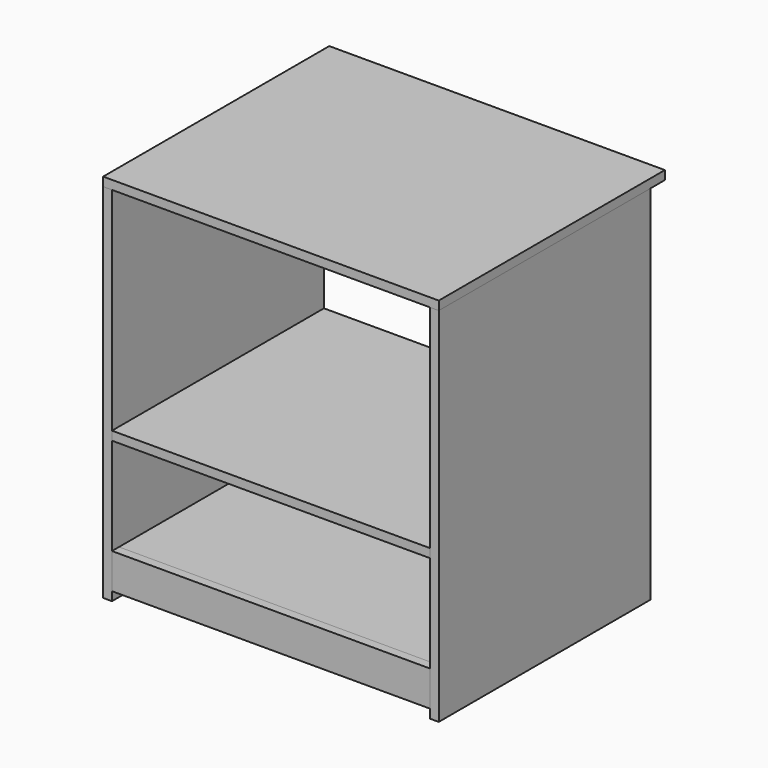
from build123d import *

# Parameters (mm, degrees)
F1_DEPTH = 406.4
F2_DEPTH = 381
F3_START = -12.7
F3_DEPTH = 368.3
F4_START = -12.7
F0_W     = 12.7
F0_H     = 38.1
F4_DEPTH = 368.3
F0_W_2   = 431.8
F5_DEPTH = 12.7
F0_W_3   = 457.2
F0_H_2   = 12.7
F6_DEPTH = 381


with BuildPart() as f1:
    # F0 (on Front) → F1 (new body)
    with BuildSketch(Plane.XZ):
        Polygon((241.3, 6.35), (-241.3, 6.35), (-241.3, -6.35), (-228.6, -6.35), (228.6, -6.35), (241.3, -6.35), align=None)
    extrude(amount=-F1_DEPTH)


with BuildPart() as f2:
    # F0 (on Front) → F2 (new body)
    with BuildSketch(Plane.XZ):
        Polygon((-228.6, -6.35), (-241.3, -6.35), (-241.3, -527.05), (-228.6, -527.05), (-228.6, -514.35), (-228.6, -476.25), (-228.6, -463.55), (-228.6, -323.85), (-228.6, -311.15), align=None)
    extrude(amount=-F2_DEPTH)


with BuildPart() as f2b:
    # F0 (on Front) → F2, piece 2 (new body)
    with BuildSketch(Plane.XZ):
        Polygon((241.3, -527.05), (241.3, -6.35), (228.6, -6.35), (228.6, -311.15), (228.6, -323.85), (228.6, -463.55), (228.6, -476.25), (228.6, -514.35), (228.6, -527.05), align=None)
    extrude(amount=-F2_DEPTH)


with BuildPart() as f3:
    # F0 (on Front) → F3 (new body)
    with BuildSketch(Plane.XZ.offset(F3_START)):
        Polygon((228.6, -463.55), (-228.6, -463.55), (-228.6, -476.25), (-215.9, -476.25), (215.9, -476.25), (228.6, -476.25), align=None)
    extrude(amount=-F3_DEPTH)


with BuildPart() as f4:
    # F0 (on Front) → F4 (new body)
    with BuildSketch(Plane.XZ.offset(F4_START)):
        with Locations((-222.25, -495.3)):
            Rectangle(F0_W, F0_H)
    extrude(amount=-F4_DEPTH)


with BuildPart() as f4b:
    # F0 (on Front) → F4, piece 2 (new body)
    with BuildSketch(Plane.XZ.offset(F4_START)):
        with Locations((222.25, -495.3)):
            Rectangle(F0_W, F0_H)
    extrude(amount=-F4_DEPTH)


with BuildPart() as f5:
    # F0 (on Front) → F5 (new body)
    with BuildSketch(Plane.XZ):
        with Locations((-222.25, -495.3)):
            Rectangle(F0_W, F0_H)
        with Locations((0, -495.3)):
            Rectangle(F0_W_2, F0_H)
        Polygon((228.6, -463.55), (-228.6, -463.55), (-228.6, -476.25), (-215.9, -476.25), (215.9, -476.25), (228.6, -476.25), align=None)
        with Locations((222.25, -495.3)):
            Rectangle(F0_W, F0_H)
    extrude(amount=-F5_DEPTH)


with BuildPart() as f6:
    # F0 (on Front) → F6 (new body, through all)
    with BuildSketch(Plane.XZ):
        with Locations((0, -317.5)):
            Rectangle(F0_W_3, F0_H_2)
    extrude(amount=-F6_DEPTH)


solid = Compound([f1.part, f2.part, f2b.part, f3.part, f4.part, f4b.part, f5.part, f6.part])
